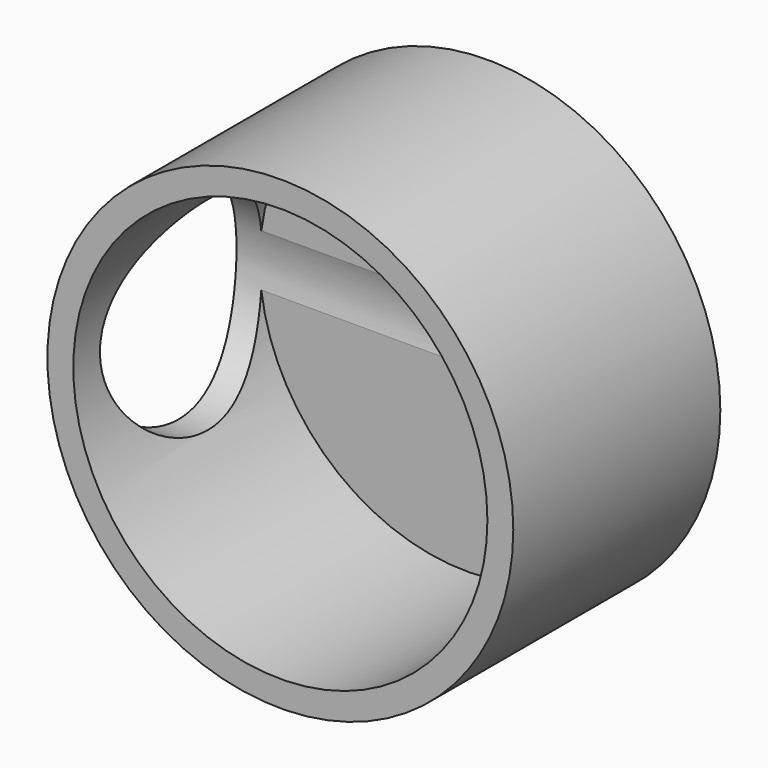
from build123d import *

# Parameters (mm, degrees)
F0_R     = 22.86
F1_DEPTH = 25.4
F2_T     = -2.54
F3_R     = 2.9972
F4_DEPTH = 12.7
F5_R     = 9.964645
F6_DEPTH = 22.861


with BuildPart() as f1:
    # F0 (on Front) → F1 (new body)
    with BuildSketch(Plane.XZ):
        Circle(F0_R)
    extrude(amount=F1_DEPTH)

    # F2
    f2_openings = [f1.faces().sort_by_distance(p)[0] for p in [
        (0, -25.4, 0),
    ]]
    offset(amount=F2_T, openings=f2_openings)

    # F3 (on face) → F4 (cut, symmetric)
    with BuildSketch(Plane.XZ.offset(2.54)):
        Circle(F3_R)
    extrude(amount=F4_DEPTH, both=True, mode=Mode.SUBTRACT)

    # F5 (on Right) → F6 (cut, through all)
    with BuildSketch(Plane.YZ):
        with Locations((-12.170834, 0)):
            Circle(F5_R)
    extrude(amount=-F6_DEPTH, mode=Mode.SUBTRACT)


solid = f1.part
